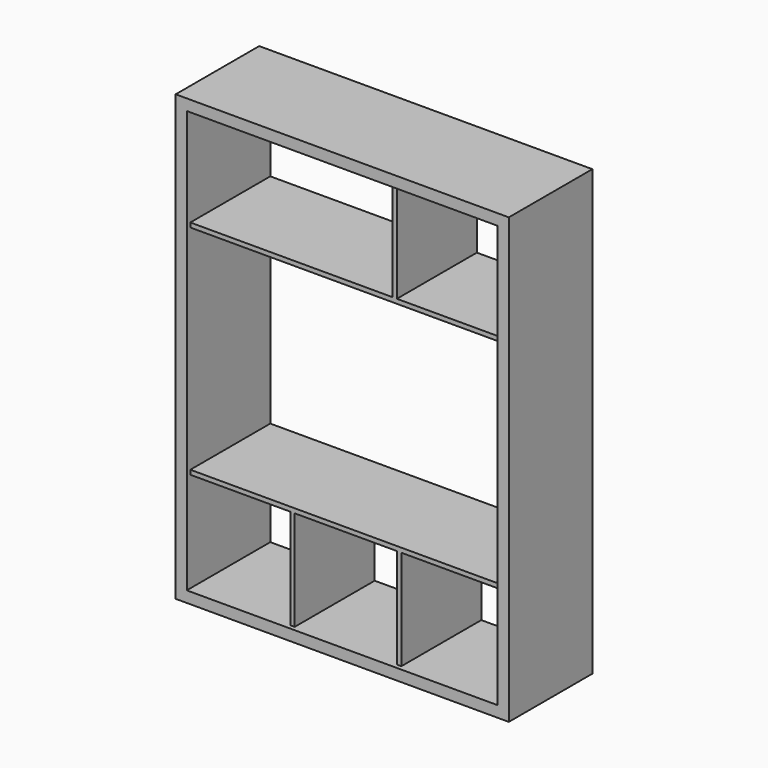
from build123d import *

# Parameters (mm, degrees)
F0_W     = 1500
F0_H     = 2000
F0_W_2   = 1400
F0_H_2   = 1900
F1_DEPTH = 470
F2_W     = 20
F2_H     = 450
F3_DEPTH = 450
F5_DEPTH = 450
F6_W     = 470
F6_H     = 20
F7_DEPTH = 450


with BuildPart() as f1:
    # F0 (on Front) → F1 (new body)
    with BuildSketch(Plane.XZ):
        Rectangle(F0_W, F0_H)
        Rectangle(F0_W_2, F0_H_2, mode=Mode.SUBTRACT)
    extrude(amount=F1_DEPTH)

    # F2 (on Front) → F3 (join)
    with BuildSketch(Plane.XZ):
        Polygon((700, -500), (700, -480), (-700, -480), (-700, -500), (-250, -500), (-230, -500), (230, -500), (250, -500), align=None)
        with Locations((240, -725)):
            Rectangle(F2_W, F2_H)
        with Locations((-240, -725)):
            Rectangle(F2_W, F2_H)
    extrude(amount=F3_DEPTH)

    # F4 (on Front) → F5 (join)
    with BuildSketch(Plane.XZ):
        Polygon((230, 950), (210, 950), (210, 500), (-700, 500), (-700, 480), (230, 480), align=None)
    extrude(amount=F5_DEPTH)

    # F6 (on Front) → F7 (join)
    with BuildSketch(Plane.XZ):
        with Locations((465, 490)):
            Rectangle(F6_W, F6_H)
    extrude(amount=F7_DEPTH)


solid = f1.part
